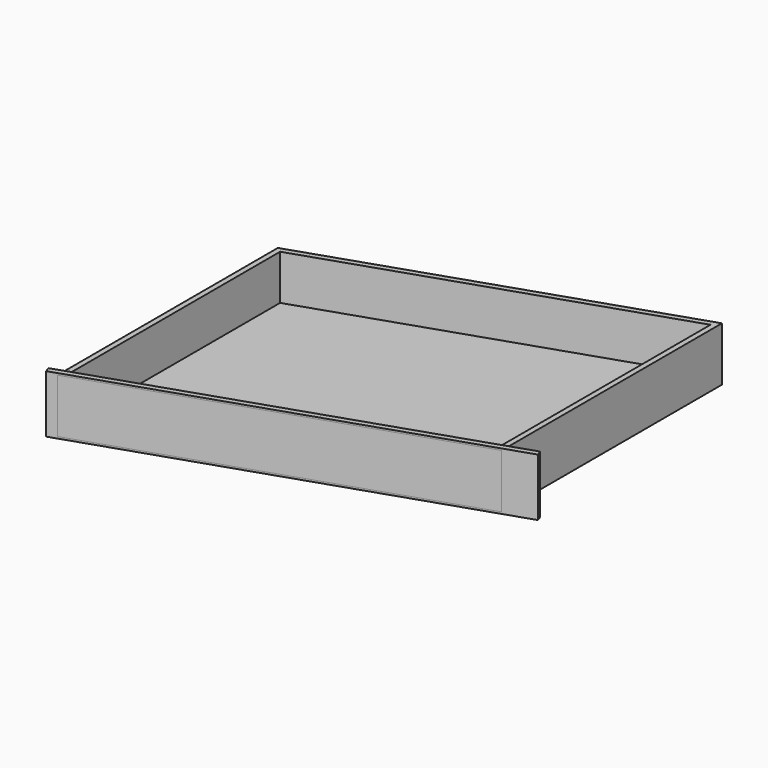
from build123d import *

# Parameters (mm, degrees)
F1_DEPTH = 120
F3_DEPTH = 8
F5_DEPTH = 100
F6_W     = 908.2950688624
F6_H     = 128
F7_DEPTH = 12


with BuildPart() as f1:
    # F0 (on Top) → F1 (new body)
    with BuildSketch(Plane.XY):
        Polygon((802.5, -8.4689717992), (24.5, -268.4689717992), (24.5, -880), (802.5, -620), align=None)
    extrude(amount=F1_DEPTH)

    # F2 (on face) → F3 (cut)
    with BuildSketch(Plane(origin=(0, 0, 0), x_dir=(1, 0, 0), z_dir=(0, 0, -1))):
        Polygon((36.5, 277.1110551236), (790.5, 25.1316206763), (790.5, 611.3579166756), (36.5, 863.3373511229), align=None)
    extrude(amount=-F3_DEPTH, mode=Mode.SUBTRACT)

    # F4 (on face) → F5 (cut, through all)
    with BuildSketch(Plane.XY.offset(120)):
        Polygon((790.5, -611.3579166756), (790.5, -25.1316206763), (36.5, -277.1110551236), (36.5, -863.3373511229), align=None)
    extrude(amount=-F5_DEPTH, mode=Mode.SUBTRACT)

    # F6 (on face) → F7 (join, through all)
    with BuildSketch(Plane(origin=(267.0038223527, -798.9575915017, 0), x_dir=(0.9484392014, 0.3169591161, 0), z_dir=(0.3169591161, -0.9484392014, 0))):
        with Locations((177.4602726623, 60)):
            Rectangle(F6_W, F6_H)
    extrude(amount=-F7_DEPTH)


solid = f1.part
